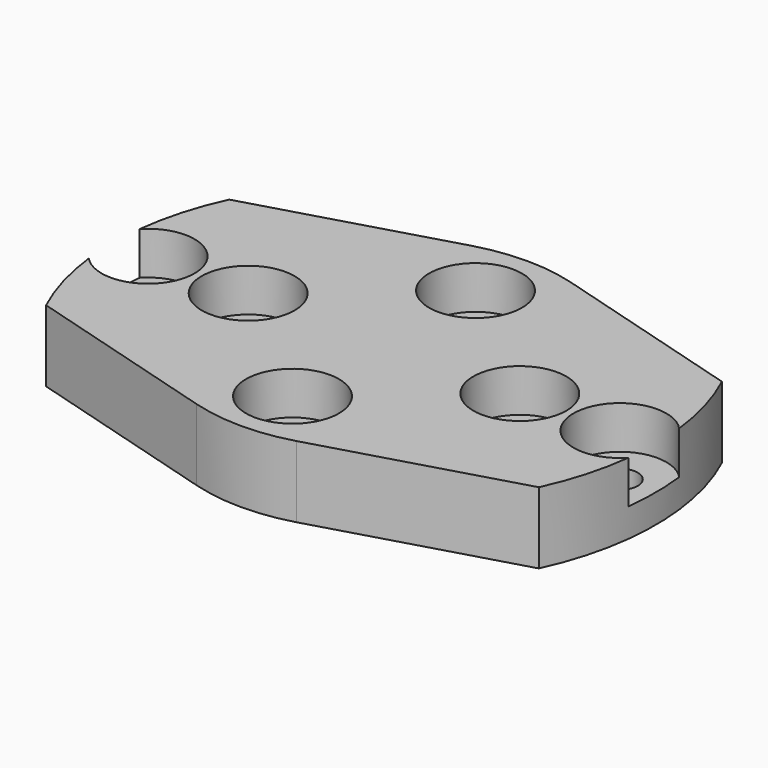
from build123d import *

# Parameters (mm, degrees)
F1_DEPTH       = 5
F3_D           = 2.5
F3_CBORE_D     = 6.5
F3_CBORE_DEPTH = 3


with BuildPart() as f1:
    # F0 (on Top) → F1 (new body)
    with BuildSketch(Plane.XY):
        with BuildLine():
            Line((-3.4954430428, 12.0013281738), (-17.2336879396, 8))
            ThreePointArc((-17.2336879396, 8), (-19, 0), (-17.2336879396, -8))
            Line((-17.2336879396, -8), (-3.4954430428, -12.0013281738))
            ThreePointArc((-3.4954430428, -12.0013281738), (0, -12.5), (3.4954430428, -12.0013281738))
            Line((3.4954430428, -12.0013281738), (17.2336879396, -8))
            ThreePointArc((17.2336879396, -8), (19, 0), (17.2336879396, 8))
            Line((17.2336879396, 8), (3.4954430428, 12.0013281738))
            ThreePointArc((3.4954430428, 12.0013281738), (0, 12.5), (-3.4954430428, 12.0013281738))
        make_face()
    extrude(amount=F1_DEPTH)

    # F3 (through all)
    with Locations(Plane.XY.offset(5)):
        with Locations((-9.5, 0), (0, 8), (9.5, 0), (0, -8), (-16.5, 0), (16.5, 0)):
            CounterBoreHole(F3_D / 2, F3_CBORE_D / 2, F3_CBORE_DEPTH)


solid = f1.part
